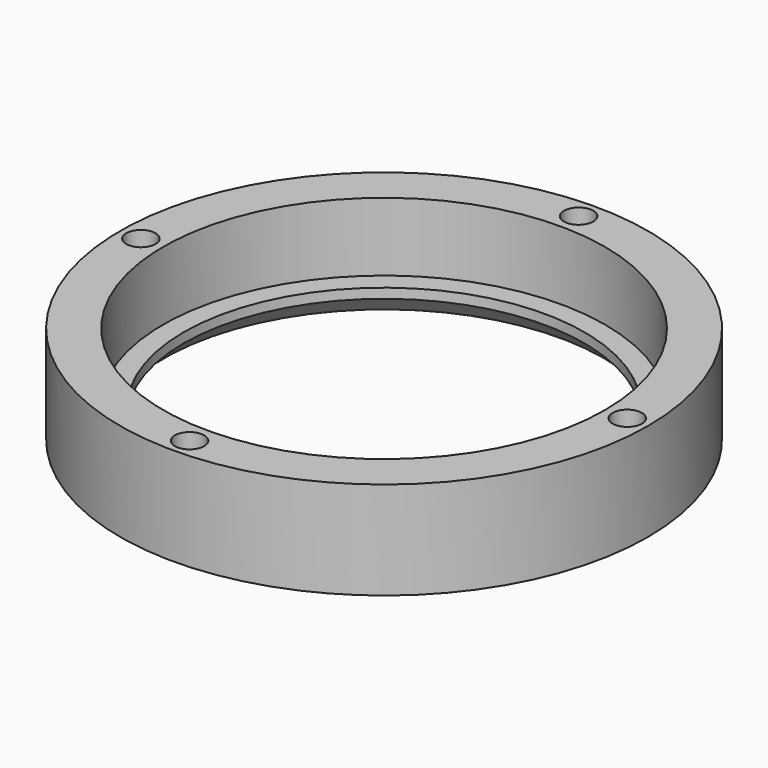
from build123d import *

# Parameters (mm, degrees)
F0_R     = 27
F1_DEPTH = 10
F2_R     = 22.6
F3_DEPTH = 7
F4_R     = 20.5
F5_DEPTH = 3.001
F6_R     = 1.5
F7_DEPTH = 10.001
F8_SIZE  = 2


with BuildPart() as f1:
    # F0 (on Top) → F1 (new body)
    with BuildSketch(Plane.XY):
        Circle(F0_R)
    extrude(amount=F1_DEPTH)

    # F2 (on face) → F3 (cut)
    with BuildSketch(Plane.XY.offset(10)):
        Circle(F2_R)
    extrude(amount=-F3_DEPTH, mode=Mode.SUBTRACT)

    # F4 (on face) → F5 (cut, through all)
    with BuildSketch(Plane.XY.offset(3)):
        Circle(F4_R)
    extrude(amount=-F5_DEPTH, mode=Mode.SUBTRACT)

    # F6 (on face) → F7 (cut, through all)
    with BuildSketch(Plane.XY.offset(10)):
        with Locations((-24.875, 0)):
            Circle(F6_R)
        with Locations((24.875, 0)):
            Circle(F6_R)
        with Locations((0, 24.875)):
            Circle(F6_R)
        with Locations((0, -24.875)):
            Circle(F6_R)
    extrude(amount=-F7_DEPTH, mode=Mode.SUBTRACT)

    # F8
    f8_edges = [f1.edges().sort_by_distance(p)[0] for p in [
        (-20.5, 0, 0),
    ]]
    chamfer(f8_edges, length=F8_SIZE)


solid = f1.part
